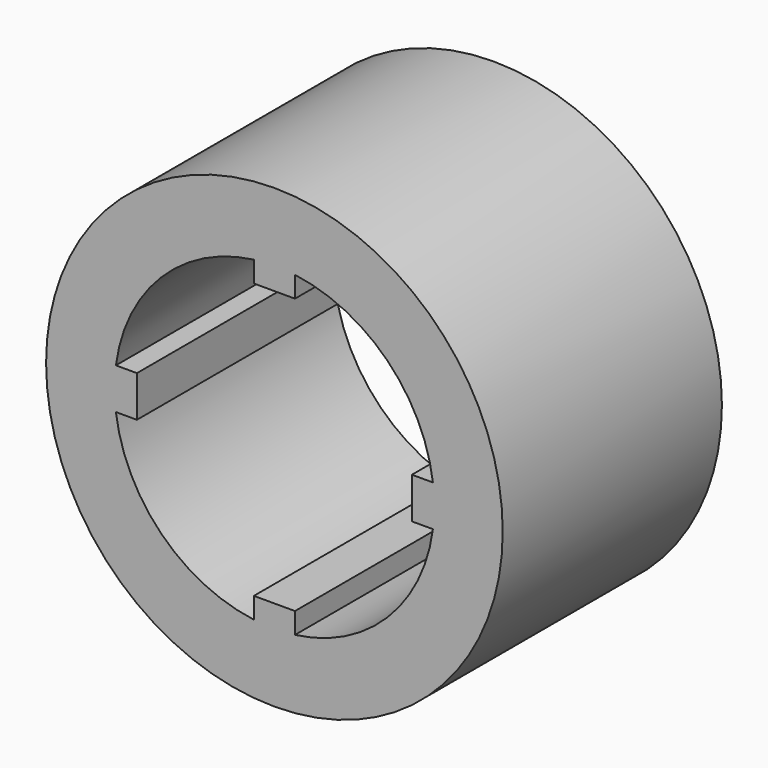
from build123d import *

# Parameters (mm, degrees)
F0_R     = 6.35
F1_DEPTH = 7.62


with BuildPart() as f1:
    # F0 (on Front) → F1 (new body)
    with BuildSketch(Plane.XZ):
        Circle(F0_R)
        with BuildLine():
            ThreePointArc((4.408108, 0.5715), (4.435767, 0.286345), (4.445, 0))
            ThreePointArc((4.445, 0), (4.435767, -0.286345), (4.408108, -0.5715))
            ThreePointArc((4.408108, -0.5715), (3.14309, -3.14309), (0.5715, -4.408108))
            ThreePointArc((0.5715, -4.408108), (0, -4.445), (-0.5715, -4.408108))
            ThreePointArc((-0.5715, -4.408108), (-3.14309, -3.14309), (-4.408108, -0.5715))
            ThreePointArc((-4.408108, -0.5715), (-4.445, 0), (-4.408108, 0.5715))
            ThreePointArc((-4.408108, 0.5715), (-3.14309, 3.14309), (-0.5715, 4.408108))
            ThreePointArc((-0.5715, 4.408108), (0, 4.445), (0.5715, 4.408108))
            ThreePointArc((0.5715, 4.408108), (3.14309, 3.14309), (4.408108, 0.5715))
        make_face(mode=Mode.SUBTRACT)
        with BuildLine():
            Line((0.5715, 3.823908), (0.5715, 4.408108))
            ThreePointArc((0.5715, 4.408108), (0, 4.445), (-0.5715, 4.408108))
            Line((-0.5715, 4.408108), (-0.5715, 3.823908))
            Line((-0.5715, 3.823908), (0.5715, 3.823908))
        make_face()
        with BuildLine():
            ThreePointArc((4.408108, -0.5715), (4.435767, -0.286345), (4.445, 0))
            ThreePointArc((4.445, 0), (4.435767, 0.286345), (4.408108, 0.5715))
            Line((4.408108, 0.5715), (3.823908, 0.5715))
            Line((3.823908, 0.5715), (3.823908, -0.5715))
            Line((3.823908, -0.5715), (4.408108, -0.5715))
        make_face()
        with BuildLine():
            ThreePointArc((-0.5715, -4.408108), (0, -4.445), (0.5715, -4.408108))
            Line((0.5715, -4.408108), (0.5715, -3.823908))
            Line((0.5715, -3.823908), (-0.5715, -3.823908))
            Line((-0.5715, -3.823908), (-0.5715, -4.408108))
        make_face()
        with BuildLine():
            Line((-3.823908, 0.5715), (-4.408108, 0.5715))
            ThreePointArc((-4.408108, 0.5715), (-4.445, 0), (-4.408108, -0.5715))
            Line((-4.408108, -0.5715), (-3.823908, -0.5715))
            Line((-3.823908, -0.5715), (-3.823908, 0.5715))
        make_face()
    extrude(amount=F1_DEPTH)


solid = f1.part
